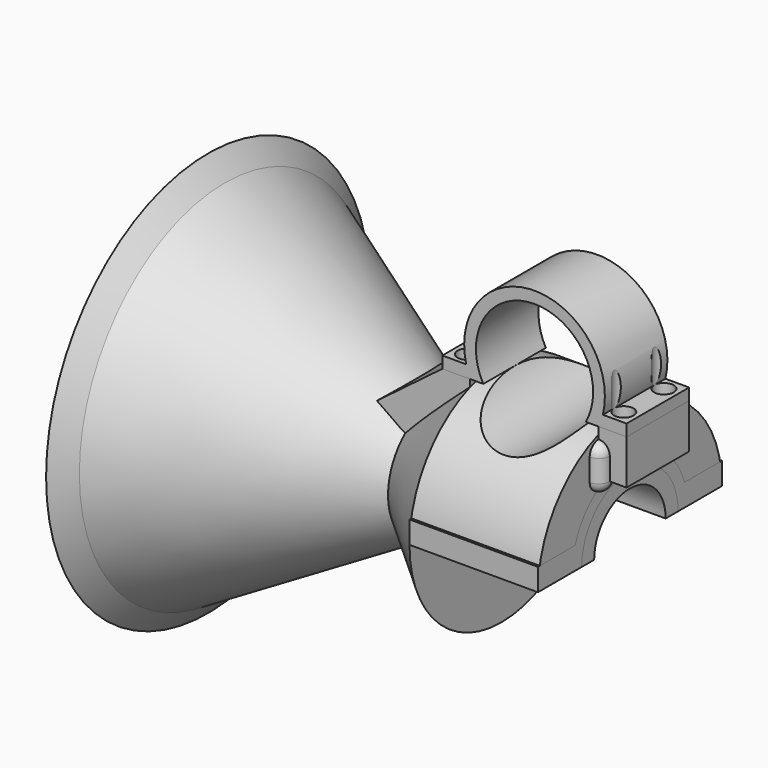
from build123d import *

# Parameters (mm, degrees)
POCKET_DEPTH        = 40
SKETCH002_R         = 10.5
POCKET001_DEPTH     = 20
PAD001_DEPTH        = 7
SKETCH006_R         = 1.5
HOLE001_DEPTH       = 10
HOLE001_TIPS_R      = 1.5
SKETCH007_W         = 5
SKETCH007_H         = 8
PAD_DEPTH           = 7
SKETCH008_R         = 1.5
HOLE_DEPTH          = 10
HOLE_TIPS_R         = 1.5
SKETCH009_R         = 1.5
HOLE002_DEPTH       = 8
HOLE002_TIPS_R      = 1.5
CYLINDER_R          = 2
CYLINDER_DEPTH      = 4
CYLINDER001_R       = 2
CYLINDER001_DEPTH   = 4
REVOLUTION001_ANGLE = -180
SKETCH011_W         = 23
SKETCH011_H         = 9.8
PAD002_DEPTH        = 4
SKETCH012_R         = 2
HOLE003_DEPTH       = 25
PAD003_DEPTH        = 7
SKETCH015_R         = 1.75
HOLE004_DEPTH       = 17.701867
SKETCH016_R         = 1.75
HOLE005_DEPTH       = 17.701867


with BuildPart() as body:
    # Sketch → Revolution (revolve)
    with BuildSketch(Plane.XY):
        Polygon((0, -6.8), (-15, -6.8), (-56.569219, -30.8), (-58.569219, -30.8), (-58.569219, -36.253502), (-55.519219, -32.618653), (-17.699165, -10.783235), (-6, -20.6), (17, -20.6), (17, -8), (6.583837, -8), (3, -10.8), (0, -10.8), align=None)
    revolve(axis=Axis((0, 0, 0), (1, 0, 0)))

    # Sketch001 → Pocket (cut)
    with BuildSketch(Plane.XY):
        Polygon((-6, -20.6), (-6, 0), (-6, 20.6), (17, 20.6), (17, 0), (17, -20.6), align=None)
    extrude(amount=-POCKET_DEPTH, mode=Mode.SUBTRACT)

    # Sketch002 → Pocket001 (cut, symmetric)
    with BuildSketch(Plane.XZ):
        with Locations((5.515267, 25.700867)):
            Circle(SKETCH002_R)
    extrude(amount=POCKET001_DEPTH, both=True, mode=Mode.SUBTRACT)

    # Sketch005 → Pad001 (join, symmetric)
    with BuildSketch(Plane.XZ):
        Polygon((-6, 20.6), (-11, 20.6), (-23.102098, 11.464966), (-15, 6.8), (-6, 16.382198), align=None)
    extrude(amount=PAD001_DEPTH, both=True)

    # Sketch006 (on Face25 of Pad001) → Hole001 (cut)
    with BuildSketch(Plane.XY.offset(20.6)):
        with Locations((-8.5, 4.5)):
            Circle(SKETCH006_R)
        with Locations((-8.5, -4.5)):
            Circle(SKETCH006_R)
    extrude(amount=-HOLE001_DEPTH, mode=Mode.SUBTRACT)

    # Hole001 tips → Hole001 tip 1 section 0
    with BuildSketch(Plane.XY.offset(10.6), mode=Mode.PRIVATE) as hole001_tip_1_s0:
        with Locations((-8.5, 4.5)):
            Circle(HOLE001_TIPS_R)
    loft([hole001_tip_1_s0.sketch, Vertex(-8.5, 4.5, 9.698709)], mode=Mode.SUBTRACT)

    # Hole001 tips → Hole001 tip 2 section 0
    with BuildSketch(Plane.XY.offset(10.6), mode=Mode.PRIVATE) as hole001_tip_2_s0:
        with Locations((-8.5, -4.5)):
            Circle(HOLE001_TIPS_R)
    loft([hole001_tip_2_s0.sketch, Vertex(-8.5, -4.5, 9.698709)], mode=Mode.SUBTRACT)

    # Sketch007 → Pad (join, symmetric)
    with BuildSketch(Plane.XZ):
        with Locations((19.5, 16.6)):
            Rectangle(SKETCH007_W, SKETCH007_H)
    extrude(amount=PAD_DEPTH, both=True)

    # Sketch008 (on Face29 of Pad) → Hole (cut)
    with BuildSketch(Plane.XY.offset(20.6)):
        with Locations((19.5, 4.5)):
            Circle(SKETCH008_R)
        with Locations((19.5, -4.5)):
            Circle(SKETCH008_R)
    extrude(amount=-HOLE_DEPTH, mode=Mode.SUBTRACT)

    # Hole tips → Hole tip 1 section 0
    with BuildSketch(Plane.XY.offset(10.6), mode=Mode.PRIVATE) as hole_tip_1_s0:
        with Locations((19.5, 4.5)):
            Circle(HOLE_TIPS_R)
    loft([hole_tip_1_s0.sketch, Vertex(19.5, 4.5, 9.698709)], mode=Mode.SUBTRACT)

    # Hole tips → Hole tip 2 section 0
    with BuildSketch(Plane.XY.offset(10.6), mode=Mode.PRIVATE) as hole_tip_2_s0:
        with Locations((19.5, -4.5)):
            Circle(HOLE_TIPS_R)
    loft([hole_tip_2_s0.sketch, Vertex(19.5, -4.5, 9.698709)], mode=Mode.SUBTRACT)

    # Sketch009 (on Face2 of Hole) → Hole002 (cut)
    with BuildSketch(Plane(origin=(0, 0, 0), x_dir=(1, 0, 0), z_dir=(0, 0, -1))):
        with Locations((13.4, 17)):
            Circle(SKETCH009_R)
        with Locations((-2.4, 17)):
            Circle(SKETCH009_R)
        with Locations((13.4, -17)):
            Circle(SKETCH009_R)
        with Locations((-2.4, -17)):
            Circle(SKETCH009_R)
    extrude(amount=-HOLE002_DEPTH, mode=Mode.SUBTRACT)

    # Hole002 tips → Hole002 tip 1 section 0
    with BuildSketch(Plane(origin=(0, 0, 8), x_dir=(1, 0, 0), z_dir=(0, 0, -1)), mode=Mode.PRIVATE) as hole002_tip_1_s0:
        with Locations((13.4, 17)):
            Circle(HOLE002_TIPS_R)
    loft([hole002_tip_1_s0.sketch, Vertex(13.4, -17, 8.901291)], mode=Mode.SUBTRACT)

    # Hole002 tips → Hole002 tip 2 section 0
    with BuildSketch(Plane(origin=(0, 0, 8), x_dir=(1, 0, 0), z_dir=(0, 0, -1)), mode=Mode.PRIVATE) as hole002_tip_2_s0:
        with Locations((-2.4, 17)):
            Circle(HOLE002_TIPS_R)
    loft([hole002_tip_2_s0.sketch, Vertex(-2.4, -17, 8.901291)], mode=Mode.SUBTRACT)

    # Hole002 tips → Hole002 tip 3 section 0
    with BuildSketch(Plane(origin=(0, 0, 8), x_dir=(1, 0, 0), z_dir=(0, 0, -1)), mode=Mode.PRIVATE) as hole002_tip_3_s0:
        with Locations((13.4, -17)):
            Circle(HOLE002_TIPS_R)
    loft([hole002_tip_3_s0.sketch, Vertex(13.4, 17, 8.901291)], mode=Mode.SUBTRACT)

    # Hole002 tips → Hole002 tip 4 section 0
    with BuildSketch(Plane(origin=(0, 0, 8), x_dir=(1, 0, 0), z_dir=(0, 0, -1)), mode=Mode.PRIVATE) as hole002_tip_4_s0:
        with Locations((-2.4, -17)):
            Circle(HOLE002_TIPS_R)
    loft([hole002_tip_4_s0.sketch, Vertex(-2.4, 17, 8.901291)], mode=Mode.SUBTRACT)

    # Cylinder → Cylinder (join)
    with BuildSketch(Plane(origin=(17, -7, 12.6), x_dir=(1, 0, 0), z_dir=(0, 0, 1))):
        Circle(CYLINDER_R)
    extrude(amount=CYLINDER_DEPTH)

    # Cylinder001 → Cylinder001 (join)
    with BuildSketch(Plane(origin=(17, 7, 12.6), x_dir=(1, 0, 0), z_dir=(0, 0, 1))):
        Circle(CYLINDER001_R)
    extrude(amount=CYLINDER001_DEPTH)

    # Sphere → Sphere (revolve)
    with BuildSketch(Plane(origin=(17, 7, 16.6), x_dir=(0, -1, 0), z_dir=(0, 0, -1))):
        with BuildLine():
            ThreePointArc((0, -2), (2, 0), (0, 2))
            Line((0, 2), (0, -2))
        make_face()
    revolve(axis=Axis((17, 7, 16.6), (-1, 0, 0)))

    # Sphere001 → Sphere001 (revolve)
    with BuildSketch(Plane(origin=(17, -7, 16.6), x_dir=(0, -1, 0), z_dir=(0, 0, -1))):
        with BuildLine():
            ThreePointArc((0, -2), (2, 0), (0, 2))
            Line((0, 2), (0, -2))
        make_face()
    revolve(axis=Axis((17, -7, 16.6), (-1, 0, 0)))

    # Sphere002 → Sphere002 (revolve)
    with BuildSketch(Plane(origin=(17, -7, 12.6), x_dir=(1, 0, 0), z_dir=(0, -1, 0))):
        with BuildLine():
            ThreePointArc((0, -2), (2, 0), (0, 2))
            Line((0, 2), (0, -2))
        make_face()
    revolve(axis=Axis((17, -7, 12.6), (0, 0, 1)))

    # Sphere003 → Sphere003 (revolve)
    with BuildSketch(Plane(origin=(17, 7, 12.6), x_dir=(0, 1, 0), z_dir=(1, 0, 0))):
        with BuildLine():
            ThreePointArc((0, -2), (2, 0), (0, 2))
            Line((0, 2), (0, -2))
        make_face()
    revolve(axis=Axis((17, 7, 12.6), (0, 0, 1)))


with BuildPart() as top_clamp:
    # Sketch010 → Revolution001 (revolve)
    with BuildSketch(Plane.XY):
        Polygon((0, -10.8), (17, -10.8), (17, -12.9), (-6, -12.9), (-6, -6.8), (0, -6.8), align=None)
    revolve(axis=Axis((0, 0, 0), (1, 0, 0)), revolution_arc=REVOLUTION001_ANGLE)

    # Sketch011 (on Binder) → Pad002 (new body)
    with BuildSketch(Plane.XY):
        with Locations((5.5, -15.7)):
            Rectangle(SKETCH011_W, SKETCH011_H)
        with Locations((5.5, 15.7)):
            Rectangle(SKETCH011_W, SKETCH011_H)
    extrude(amount=PAD002_DEPTH)

    # Sketch012 (on Binder) → Hole003 (cut)
    with BuildSketch(Plane.XY):
        with Locations((-2.4, -17)):
            Circle(SKETCH012_R)
        with Locations((13.4, -17)):
            Circle(SKETCH012_R)
        with Locations((13.4, 17)):
            Circle(SKETCH012_R)
        with Locations((-2.4, 17)):
            Circle(SKETCH012_R)
    extrude(amount=HOLE003_DEPTH, mode=Mode.SUBTRACT)


with BuildPart() as bottom_clamp:
    # Sketch014 (on Binder) → Pad003 (new body, symmetric)
    with BuildSketch(Plane(origin=(0, 0, 0), x_dir=(-1, 0, 0), z_dir=(0, 1, 0))):
        with BuildLine():
            Line((-22, 20.6), (-17, 20.6))
            Line((-17, 20.6), (-14.69302, 20.6))
            ThreePointArc((3.662486, 20.6), (-5.515267, 36.200867), (-14.69302, 20.6))
            Line((6, 20.6), (3.662486, 20.6))
            Line((6, 20.6), (11, 20.6))
            Line((11, 20.6), (11, 22.7))
            Line((11, 22.7), (6.722167, 22.7))
            ThreePointArc((6.722167, 22.7), (-5.515267, 38.300867), (-17.752701, 22.7))
            Line((-17.752701, 22.7), (-22, 22.7))
            Line((-22, 22.7), (-22, 20.6))
        make_face()
    extrude(amount=PAD003_DEPTH, both=True)

    # Sketch015 (on Face10 of Pad003) → Hole004 (cut, through all)
    with BuildSketch(Plane(origin=(0, 0, 20.6), x_dir=(1, 0, 0), z_dir=(0, 0, -1))):
        with Locations((19.5, 4.5)):
            Circle(SKETCH015_R)
        with Locations((19.5, -4.5)):
            Circle(SKETCH015_R)
    extrude(amount=-HOLE004_DEPTH, mode=Mode.SUBTRACT)

    # Sketch016 (on Face2 of Hole004) → Hole005 (cut, through all)
    with BuildSketch(Plane(origin=(0, 0, 20.6), x_dir=(1, 0, 0), z_dir=(0, 0, -1))):
        with Locations((-8.5, 4.5)):
            Circle(SKETCH016_R)
        with Locations((-8.5, -4.5)):
            Circle(SKETCH016_R)
    extrude(amount=-HOLE005_DEPTH, mode=Mode.SUBTRACT)


solid = Compound([body.part, top_clamp.part, bottom_clamp.part])
